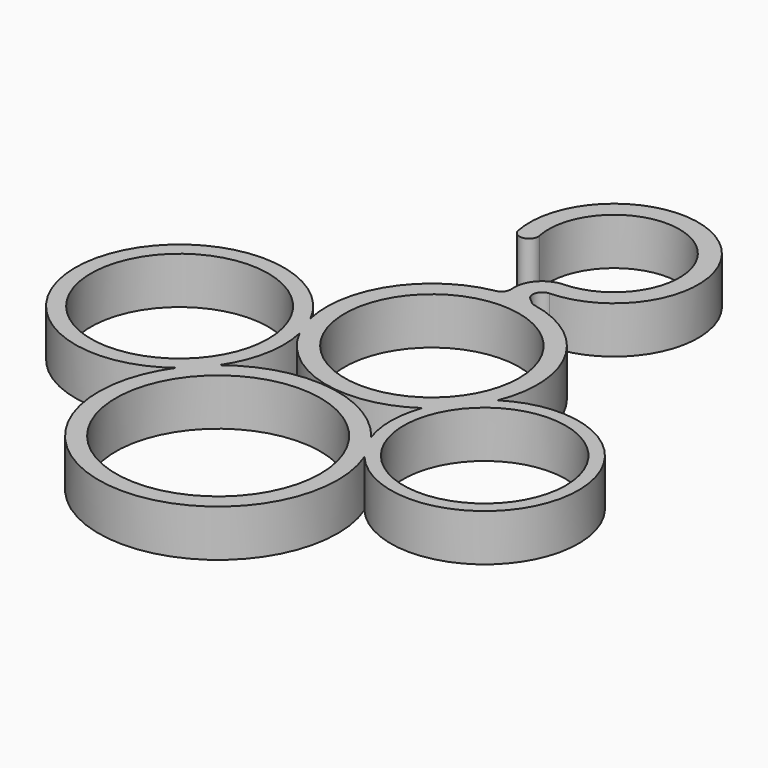
from build123d import *

# Parameters (mm, degrees)
F0_R     = 54.4924805174
F0_R_2   = 43.1604920117
F0_R_3   = 47.1840335611
F0_R_4   = 46.467
F1_DEPTH = 25
F3_DEPTH = 25
F4_R     = 5


with BuildPart() as f1:
    # F0 (on Top) → F1 (new body)
    with BuildSketch(Plane.XY):
        with BuildLine():
            ThreePointArc((-171.1951607712, -99.3221294101), (-127.2895477252, -199.5524067975), (-60.162123745, -113.1364342468))
            ThreePointArc((-60.162123745, -113.1364342468), (27.5666162737, -88.5949500771), (-48.7532108312, -38.8566322407))
            ThreePointArc((-48.7532108312, -38.8566322407), (-95.9689877261, 38.3611262057), (-155.4748304215, -29.836868577))
            ThreePointArc((-155.4748304215, -29.836868577), (-259.0763673914, -42.9189917909), (-171.1951607712, -99.3221294101))
        make_face()
        with Locations((-119.4296146298, -136.3778748382)):
            Circle(F0_R, mode=Mode.SUBTRACT)
        with Locations((-21.8538418412, -81.0042768717)):
            Circle(F0_R_2, mode=Mode.SUBTRACT)
        with Locations((-204.9019783735, -55.1753938198)):
            Circle(F0_R_3, mode=Mode.SUBTRACT)
        with BuildLine():
            ThreePointArc((-159.087277872, -86.5775758158), (-150.3684240565, -65.719362224), (-150.6837491193, -43.1144057719))
            ThreePointArc((-150.6837491193, -43.1144057719), (-114.4142534505, -72.0060826257), (-68.7840436754, -63.7544607623))
            ThreePointArc((-68.7840436754, -63.7544607623), (-71.8518551472, -80.5585578366), (-69.0841155831, -97.4146773015))
            ThreePointArc((-69.0841155831, -97.4146773015), (-111.819217091, -73.1727968314), (-159.087277872, -86.5775758158))
        make_face(mode=Mode.SUBTRACT)
        with Locations((-100.6964207948, -17.5737444198)):
            Circle(F0_R_4, mode=Mode.SUBTRACT)
    extrude(amount=F1_DEPTH)

    # F2 (on face) → F3 (join)
    with BuildSketch(Plane.XY.offset(25)):
        with BuildLine():
            ThreePointArc((-127.7027924667, 87.8290782041), (-71.8303532525, 121.9260893446), (-92.3607341122, 59.7743468572))
            ThreePointArc((-92.3607341122, 59.7743468572), (-104.6730727654, 52.5942964384), (-105.4238538636, 38.3611262057))
            ThreePointArc((-105.4238538636, 38.3611262057), (-98.4279417265, 38.5146891297), (-91.4672809773, 37.7966570014))
            Line((-91.4672809773, 37.7966570014), (-95.1554035699, 41.0152669471))
            ThreePointArc((-95.1554035699, 41.0152669471), (-96.5776784553, 46.4608516232), (-92.0321108024, 49.7797479798))
            ThreePointArc((-92.0321108024, 49.7797479798), (-65.6130297513, 129.7583871225), (-137.5112819177, 85.881378358))
            ThreePointArc((-137.5112819177, 85.881378358), (-131.6331872692, 81.9509835556), (-127.7027924667, 87.8290782041))
        make_face()
    extrude(amount=-F3_DEPTH)

    # F4
    f4_edges = [f1.edges().sort_by_distance(p)[0] for p in [
        (-105.423854, 38.361126, 12.5),
        (-91.467281, 37.796657, 12.5),
    ]]
    fillet(f4_edges, radius=F4_R)


solid = f1.part
